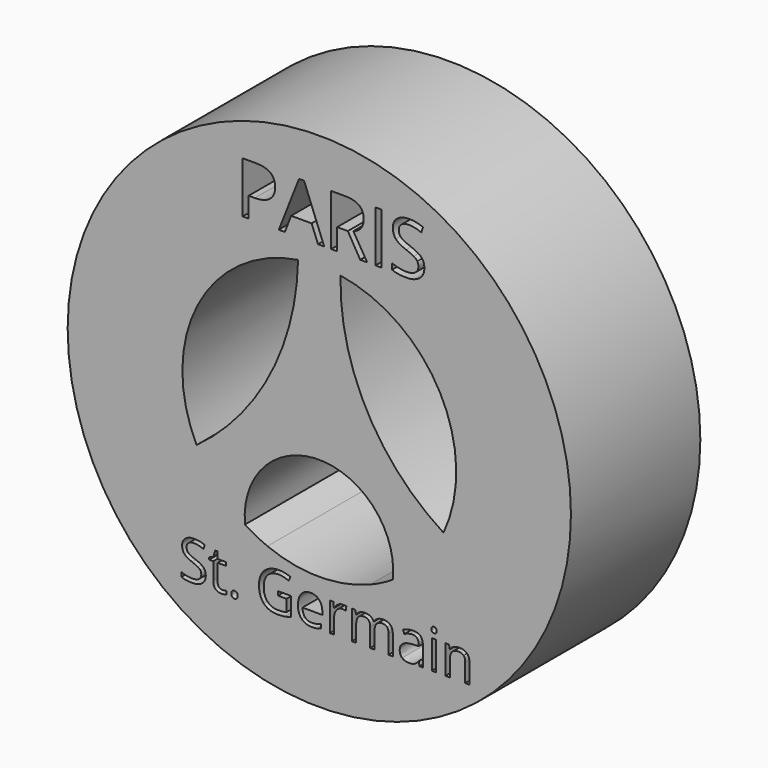
from build123d import *

# Parameters (mm, degrees)
F1_R     = 39.5167171876
F2_DEPTH = 25.4
F3_DEPTH = 25.4
F1_W     = 0.6860065645
F1_H     = 4.5271146115
F1_W_2   = 0.9338615491
F1_H_2   = 8.0354301657
F4_DEPTH = 25.4


with BuildPart() as f2:
    # F1 (on Front) → F2 (new body)
    with BuildSketch(Plane.XZ):
        with Locations((6.874427665, 20.9736265242)):
            Circle(F1_R)
        with BuildLine():
            Line((-30.6504572581, 21.9737566988), (-16.1980021435, 21.9737566988))
            ThreePointArc((-16.1980021435, 21.9737566988), (7.2450765555, -2.1174950821), (29.9028721102, 22.7137483797))
            Line((29.9028721102, 22.7137483797), (44.3722839343, 22.7137483797))
            ThreePointArc((44.3722839343, 22.7137483797), (7.2446702328, -16.5627580819), (-30.6504572581, 21.9737566988))
        make_face(mode=Mode.SUBTRACT)
        with BuildLine():
            ThreePointArc((-4.7943121085, 2.9124931999), (-8.1777184833, 5.6179461032), (-10.9501726241, 8.9466714068))
            ThreePointArc((-10.9501726241, 8.9466714068), (-5.553101401, 14.2993475071), (-1.1611408509, 20.5033947143))
            ThreePointArc((-1.1611408509, 20.5033947143), (-0.854468762, 21.036213134), (-0.5552941629, 21.5732771877))
            ThreePointArc((-0.5552941629, 21.5732771877), (3.436376343, 31.6409628801), (4.8396931084, 42.3797910603))
            ThreePointArc((4.8396931084, 42.3797910603), (6.874427665, 42.4762781017), (8.9091622216, 42.3797910603))
            ThreePointArc((8.9091622216, 42.3797910603), (10.0144576575, 31.6306135807), (13.9662267762, 21.5732771877))
            ThreePointArc((13.9662267762, 21.5732771877), (18.7512195837, 14.7940358034), (24.8361020498, 9.1523627103))
            ThreePointArc((24.8361020498, 9.1523627103), (21.9670972892, 5.6577736757), (18.4307729002, 2.840372275))
            ThreePointArc((18.4307729002, 2.840372275), (16.6832817873, 1.8385695431), (14.8497160789, 1.0046806437))
            ThreePointArc((14.8497160789, 1.0046806437), (6.7823949292, -0.5288280993), (-1.2715037384, 1.0736811365))
            ThreePointArc((-1.2715037384, 1.0736811365), (-3.0754771543, 1.9115327528), (-4.7943121085, 2.9124931999))
        make_face(mode=Mode.SUBTRACT)
        with BuildLine():
            ThreePointArc((3.5409848673, 42.2163237159), (-0.8442051179, 24.9690514894), (-12.3946609871, 11.4307628356))
            ThreePointArc((-12.3946609871, 11.4307628356), (-12.2215482635, 30.8583484828), (3.5409848673, 42.2163237159))
        make_face(mode=Mode.SUBTRACT)
        with BuildLine():
            Line((-16.0863041309, 23.4519471315), (-30.5818825621, 23.4519471315))
            ThreePointArc((-30.5818825621, 23.4519471315), (6.7430741933, 58.5116072254), (44.3124764935, 23.7140186093))
            Line((44.3124764935, 23.7140186093), (29.8053571895, 23.7140186093))
            ThreePointArc((29.8053571895, 23.7140186093), (6.7425473833, 44.0673461299), (-16.0863041309, 23.4519471315))
        make_face(mode=Mode.SUBTRACT)
        with BuildLine():
            ThreePointArc((26.3768148112, 11.9170863205), (14.3089831456, 24.941018802), (10.2078636152, 42.2163247904))
            ThreePointArc((10.2078636152, 42.2163247904), (25.8449223103, 31.097082346), (26.3768148112, 11.9170863205))
        make_face(mode=Mode.SUBTRACT)
        with Locations((6.874427665, 20.9736265242)):
            Circle(F1_R)
        with BuildLine():
            Line((-30.6504572581, 21.9737566988), (-16.1980021435, 21.9737566988))
            ThreePointArc((-16.1980021435, 21.9737566988), (7.2450765555, -2.1174950821), (29.9028721102, 22.7137483797))
            Line((29.9028721102, 22.7137483797), (44.3722839343, 22.7137483797))
            ThreePointArc((44.3722839343, 22.7137483797), (7.2446702328, -16.5627580819), (-30.6504572581, 21.9737566988))
        make_face(mode=Mode.SUBTRACT)
        with BuildLine():
            ThreePointArc((-4.7943121085, 2.9124931999), (-8.1777184833, 5.6179461032), (-10.9501726241, 8.9466714068))
            ThreePointArc((-10.9501726241, 8.9466714068), (-5.553101401, 14.2993475071), (-1.1611408509, 20.5033947143))
            ThreePointArc((-1.1611408509, 20.5033947143), (-0.854468762, 21.036213134), (-0.5552941629, 21.5732771877))
            ThreePointArc((-0.5552941629, 21.5732771877), (3.436376343, 31.6409628801), (4.8396931084, 42.3797910603))
            ThreePointArc((4.8396931084, 42.3797910603), (6.874427665, 42.4762781017), (8.9091622216, 42.3797910603))
            ThreePointArc((8.9091622216, 42.3797910603), (10.0144576575, 31.6306135807), (13.9662267762, 21.5732771877))
            ThreePointArc((13.9662267762, 21.5732771877), (18.7512195837, 14.7940358034), (24.8361020498, 9.1523627103))
            ThreePointArc((24.8361020498, 9.1523627103), (21.9670972892, 5.6577736757), (18.4307729002, 2.840372275))
            ThreePointArc((18.4307729002, 2.840372275), (16.6832817873, 1.8385695431), (14.8497160789, 1.0046806437))
            ThreePointArc((14.8497160789, 1.0046806437), (6.7823949292, -0.5288280993), (-1.2715037384, 1.0736811365))
            ThreePointArc((-1.2715037384, 1.0736811365), (-3.0754771543, 1.9115327528), (-4.7943121085, 2.9124931999))
        make_face(mode=Mode.SUBTRACT)
        with BuildLine():
            ThreePointArc((3.5409848673, 42.2163237159), (-0.8442051179, 24.9690514894), (-12.3946609871, 11.4307628356))
            ThreePointArc((-12.3946609871, 11.4307628356), (-12.2215482635, 30.8583484828), (3.5409848673, 42.2163237159))
        make_face(mode=Mode.SUBTRACT)
        with BuildLine():
            Line((-16.0863041309, 23.4519471315), (-30.5818825621, 23.4519471315))
            ThreePointArc((-30.5818825621, 23.4519471315), (6.7430741933, 58.5116072254), (44.3124764935, 23.7140186093))
            Line((44.3124764935, 23.7140186093), (29.8053571895, 23.7140186093))
            ThreePointArc((29.8053571895, 23.7140186093), (6.7425473833, 44.0673461299), (-16.0863041309, 23.4519471315))
        make_face(mode=Mode.SUBTRACT)
        with BuildLine():
            ThreePointArc((26.3768148112, 11.9170863205), (14.3089831456, 24.941018802), (10.2078636152, 42.2163247904))
            ThreePointArc((10.2078636152, 42.2163247904), (25.8449223103, 31.097082346), (26.3768148112, 11.9170863205))
        make_face(mode=Mode.SUBTRACT)
    extrude(amount=F2_DEPTH)

    # F1 (on Front) → F3 (join)
    with BuildSketch(Plane.XZ):
        with Locations((6.874427665, 20.9736265242)):
            Circle(F1_R)
        with BuildLine():
            Line((-30.6504572581, 21.9737566988), (-16.1980021435, 21.9737566988))
            ThreePointArc((-16.1980021435, 21.9737566988), (7.2450765555, -2.1174950821), (29.9028721102, 22.7137483797))
            Line((29.9028721102, 22.7137483797), (44.3722839343, 22.7137483797))
            ThreePointArc((44.3722839343, 22.7137483797), (7.2446702328, -16.5627580819), (-30.6504572581, 21.9737566988))
        make_face(mode=Mode.SUBTRACT)
        with BuildLine():
            ThreePointArc((-4.7943121085, 2.9124931999), (-8.1777184833, 5.6179461032), (-10.9501726241, 8.9466714068))
            ThreePointArc((-10.9501726241, 8.9466714068), (-5.553101401, 14.2993475071), (-1.1611408509, 20.5033947143))
            ThreePointArc((-1.1611408509, 20.5033947143), (-0.854468762, 21.036213134), (-0.5552941629, 21.5732771877))
            ThreePointArc((-0.5552941629, 21.5732771877), (3.436376343, 31.6409628801), (4.8396931084, 42.3797910603))
            ThreePointArc((4.8396931084, 42.3797910603), (6.874427665, 42.4762781017), (8.9091622216, 42.3797910603))
            ThreePointArc((8.9091622216, 42.3797910603), (10.0144576575, 31.6306135807), (13.9662267762, 21.5732771877))
            ThreePointArc((13.9662267762, 21.5732771877), (18.7512195837, 14.7940358034), (24.8361020498, 9.1523627103))
            ThreePointArc((24.8361020498, 9.1523627103), (21.9670972892, 5.6577736757), (18.4307729002, 2.840372275))
            ThreePointArc((18.4307729002, 2.840372275), (16.6832817873, 1.8385695431), (14.8497160789, 1.0046806437))
            ThreePointArc((14.8497160789, 1.0046806437), (6.7823949292, -0.5288280993), (-1.2715037384, 1.0736811365))
            ThreePointArc((-1.2715037384, 1.0736811365), (-3.0754771543, 1.9115327528), (-4.7943121085, 2.9124931999))
        make_face(mode=Mode.SUBTRACT)
        with BuildLine():
            ThreePointArc((3.5409848673, 42.2163237159), (-0.8442051179, 24.9690514894), (-12.3946609871, 11.4307628356))
            ThreePointArc((-12.3946609871, 11.4307628356), (-12.2215482635, 30.8583484828), (3.5409848673, 42.2163237159))
        make_face(mode=Mode.SUBTRACT)
        with BuildLine():
            Line((-16.0863041309, 23.4519471315), (-30.5818825621, 23.4519471315))
            ThreePointArc((-30.5818825621, 23.4519471315), (6.7430741933, 58.5116072254), (44.3124764935, 23.7140186093))
            Line((44.3124764935, 23.7140186093), (29.8053571895, 23.7140186093))
            ThreePointArc((29.8053571895, 23.7140186093), (6.7425473833, 44.0673461299), (-16.0863041309, 23.4519471315))
        make_face(mode=Mode.SUBTRACT)
        with BuildLine():
            ThreePointArc((26.3768148112, 11.9170863205), (14.3089831456, 24.941018802), (10.2078636152, 42.2163247904))
            ThreePointArc((10.2078636152, 42.2163247904), (25.8449223103, 31.097082346), (26.3768148112, 11.9170863205))
        make_face(mode=Mode.SUBTRACT)
    extrude(amount=F3_DEPTH)

    # F1 (on Front) → F4 (join)
    with BuildSketch(Plane.XZ):
        with BuildLine():
            ThreePointArc((29.9028721102, 22.7137483797), (7.2450765555, -2.1174950821), (-16.1980021435, 21.9737566988))
            Line((-16.1980021435, 21.9737566988), (-30.6504572581, 21.9737566988))
            ThreePointArc((-30.6504572581, 21.9737566988), (7.2446702328, -16.5627580819), (44.3722839343, 22.7137483797))
            Line((44.3722839343, 22.7137483797), (29.9028721102, 22.7137483797))
        make_face()
        with BuildLine():
            add(Edge.make_bspline(
                [(-11.3095467831, -5.1545705291), (-10.9526647553, -5.5431754038), (-10.9526647553, -6.1617709186)],
                knots=[0, 0, 0, 1, 1, 1], degree=2))
            add(Edge.make_bspline(
                [(-10.9526647553, -6.1617709186), (-10.9526647553, -6.9588074473), (-11.5309458188, -7.4055708747)],
                knots=[0, 0, 0, 1, 1, 1], degree=2))
            add(Edge.make_bspline(
                [(-11.5309458188, -7.4055708747), (-12.1092268823, -7.852334302), (-13.1005658484, -7.852334302)],
                knots=[0, 0, 0, 1, 1, 1], degree=2))
            add(Edge.make_bspline(
                [(-13.1005658484, -7.852334302), (-14.1738555022, -7.852334302), (-14.7527974584, -7.5747593915)],
                knots=[0, 0, 0, 1, 1, 1], degree=2))
            Line((-14.7527974584, -7.5747593915), (-14.7527974584, -6.8980053241))
            add(Edge.make_bspline(
                [(-14.7527974584, -6.8980053241), (-14.3800540072, -7.053975988), (-13.9425430768, -7.1451791729)],
                knots=[0, 0, 0, 1, 1, 1], degree=2))
            add(Edge.make_bspline(
                [(-13.9425430768, -7.1451791729), (-13.5050321465, -7.2363823578), (-13.0754519279, -7.2363823578)],
                knots=[0, 0, 0, 1, 1, 1], degree=2))
            add(Edge.make_bspline(
                [(-13.0754519279, -7.2363823578), (-12.3735839399, -7.2363823578), (-12.0180236975, -6.9700426223)],
                knots=[0, 0, 0, 1, 1, 1], degree=2))
            add(Edge.make_bspline(
                [(-12.0180236975, -6.9700426223), (-11.662463455, -6.7037028867), (-11.662463455, -6.227860183)],
                knots=[0, 0, 0, 1, 1, 1], degree=2))
            add(Edge.make_bspline(
                [(-11.662463455, -6.227860183), (-11.662463455, -5.9145970698), (-11.78869395, -5.7143465986)],
                knots=[0, 0, 0, 1, 1, 1], degree=2))
            add(Edge.make_bspline(
                [(-11.78869395, -5.7143465986), (-11.914924445, -5.5140961275), (-12.2103434569, -5.344246718)],
                knots=[0, 0, 0, 1, 1, 1], degree=2))
            add(Edge.make_bspline(
                [(-12.2103434569, -5.344246718), (-12.5057624687, -5.1743973085), (-13.1084965601, -4.9602680918)],
                knots=[0, 0, 0, 1, 1, 1], degree=2))
            add(Edge.make_bspline(
                [(-13.1084965601, -4.9602680918), (-13.9504737886, -4.6589010461), (-14.3119820648, -4.2458431436)],
                knots=[0, 0, 0, 1, 1, 1], degree=2))
            add(Edge.make_bspline(
                [(-14.3119820648, -4.2458431436), (-14.6734903411, -3.8327852411), (-14.6734903411, -3.1679272412)],
                knots=[0, 0, 0, 1, 1, 1], degree=2))
            add(Edge.make_bspline(
                [(-14.6734903411, -3.1679272412), (-14.6734903411, -2.4700246091), (-14.1494024744, -2.0569667066)],
                knots=[0, 0, 0, 1, 1, 1], degree=2))
            add(Edge.make_bspline(
                [(-14.1494024744, -2.0569667066), (-13.6253146077, -1.6439088041), (-12.7608670293, -1.6439088041)],
                knots=[0, 0, 0, 1, 1, 1], degree=2))
            add(Edge.make_bspline(
                [(-12.7608670293, -1.6439088041), (-11.8607312482, -1.6439088041), (-11.1046700634, -1.9743551261)],
                knots=[0, 0, 0, 1, 1, 1], degree=2))
            Line((-11.1046700634, -1.9743551261), (-11.3240864212, -2.5850199292))
            add(Edge.make_bspline(
                [(-11.3240864212, -2.5850199292), (-12.0722168943, -2.2717568159), (-12.7780502381, -2.2717568159)],
                knots=[0, 0, 0, 1, 1, 1], degree=2))
            add(Edge.make_bspline(
                [(-12.7780502381, -2.2717568159), (-13.3358436296, -2.2717568159), (-13.6497676355, -2.5109999531)],
                knots=[0, 0, 0, 1, 1, 1], degree=2))
            add(Edge.make_bspline(
                [(-13.6497676355, -2.5109999531), (-13.9636916415, -2.7502430902), (-13.9636916415, -3.1758579529)],
                knots=[0, 0, 0, 1, 1, 1], degree=2))
            add(Edge.make_bspline(
                [(-13.9636916415, -3.1758579529), (-13.9636916415, -3.4891210662), (-13.8480354287, -3.69003243)],
                knots=[0, 0, 0, 1, 1, 1], degree=2))
            add(Edge.make_bspline(
                [(-13.8480354287, -3.69003243), (-13.732379216, -3.8909437938), (-13.4574478761, -4.0581496327)],
                knots=[0, 0, 0, 1, 1, 1], degree=2))
            add(Edge.make_bspline(
                [(-13.4574478761, -4.0581496327), (-13.1825165362, -4.2253554716), (-12.6167924329, -4.4275886207)],
                knots=[0, 0, 0, 1, 1, 1], degree=2))
            add(Edge.make_bspline(
                [(-12.6167924329, -4.4275886207), (-11.6664288108, -4.7659656544), (-11.3095467831, -5.1545705291)],
                knots=[0, 0, 0, 1, 1, 1], degree=2))
        make_face(mode=Mode.SUBTRACT)
        with BuildLine():
            add(Edge.make_bspline(
                [(-8.890679706, -7.0665329483), (-8.6963772686, -7.2852884135), (-8.3580002349, -7.2852884135)],
                knots=[0, 0, 0, 1, 1, 1], degree=2))
            add(Edge.make_bspline(
                [(-8.3580002349, -7.2852884135), (-8.1755938651, -7.2852884135), (-8.0064053483, -7.2588527077)],
                knots=[0, 0, 0, 1, 1, 1], degree=2))
            add(Edge.make_bspline(
                [(-8.0064053483, -7.2588527077), (-7.8372168314, -7.2324170019), (-7.7380829348, -7.2033377256)],
                knots=[0, 0, 0, 1, 1, 1], degree=2))
            Line((-7.7380829348, -7.2033377256), (-7.7380829348, -7.7280864849))
            add(Edge.make_bspline(
                [(-7.7380829348, -7.7280864849), (-7.849112899, -7.7809578965), (-8.0658856862, -7.8166460992)],
                knots=[0, 0, 0, 1, 1, 1], degree=2))
            add(Edge.make_bspline(
                [(-8.0658856862, -7.8166460992), (-8.2826584735, -7.852334302), (-8.4571341315, -7.852334302)],
                knots=[0, 0, 0, 1, 1, 1], degree=2))
            add(Edge.make_bspline(
                [(-8.4571341315, -7.852334302), (-9.7696669225, -7.852334302), (-9.7696669225, -6.4684251054)],
                knots=[0, 0, 0, 1, 1, 1], degree=2))
            Line((-9.7696669225, -6.4684251054), (-9.7696669225, -3.7746266884))
            Line((-9.7696669225, -3.7746266884), (-10.4186634989, -3.7746266884))
            Line((-10.4186634989, -3.7746266884), (-10.4186634989, -3.4441803664))
            Line((-10.4186634989, -3.4441803664), (-9.7696669225, -3.1586747442))
            Line((-9.7696669225, -3.1586747442), (-9.4815177297, -2.1924496986))
            Line((-9.4815177297, -2.1924496986), (-9.0849821433, -2.1924496986))
            Line((-9.0849821433, -2.1924496986), (-9.0849821433, -3.2419472173))
            Line((-9.0849821433, -3.2419472173), (-7.771127567, -3.2419472173))
            Line((-7.771127567, -3.2419472173), (-7.771127567, -3.7746266884))
            Line((-7.771127567, -3.7746266884), (-9.0849821433, -3.7746266884))
            Line((-9.0849821433, -3.7746266884), (-9.0849821433, -6.4393458291))
            add(Edge.make_bspline(
                [(-9.0849821433, -6.4393458291), (-9.0849821433, -6.8477774831), (-8.890679706, -7.0665329483)],
                knots=[0, 0, 0, 1, 1, 1], degree=2))
        make_face(mode=Mode.SUBTRACT)
        with BuildLine():
            add(Edge.make_bspline(
                [(-6.7949891318, -7.7591484392), (-6.9331156944, -7.6289525883), (-6.9331156944, -7.3315508985)],
                knots=[0, 0, 0, 1, 1, 1], degree=2))
            add(Edge.make_bspline(
                [(-6.9331156944, -7.3315508985), (-6.9331156944, -7.053975988), (-6.8068851994, -6.9118840696)],
                knots=[0, 0, 0, 1, 1, 1], degree=2))
            add(Edge.make_bspline(
                [(-6.8068851994, -6.9118840696), (-6.6806547043, -6.7697921511), (-6.4453769231, -6.7697921511)],
                knots=[0, 0, 0, 1, 1, 1], degree=2))
            add(Edge.make_bspline(
                [(-6.4453769231, -6.7697921511), (-6.2061337859, -6.7697921511), (-6.0719725792, -6.9118840696)],
                knots=[0, 0, 0, 1, 1, 1], degree=2))
            add(Edge.make_bspline(
                [(-6.0719725792, -6.9118840696), (-5.9378113725, -7.053975988), (-5.9378113725, -7.3315508985)],
                knots=[0, 0, 0, 1, 1, 1], degree=2))
            add(Edge.make_bspline(
                [(-5.9378113725, -7.3315508985), (-5.9378113725, -7.599873312), (-6.0739552571, -7.744608801)],
                knots=[0, 0, 0, 1, 1, 1], degree=2))
            add(Edge.make_bspline(
                [(-6.0739552571, -7.744608801), (-6.2100991418, -7.8893442901), (-6.4453769231, -7.8893442901)],
                knots=[0, 0, 0, 1, 1, 1], degree=2))
            add(Edge.make_bspline(
                [(-6.4453769231, -7.8893442901), (-6.6568625692, -7.8893442901), (-6.7949891318, -7.7591484392)],
                knots=[0, 0, 0, 1, 1, 1], degree=2))
        make_face(mode=Mode.SUBTRACT)
        with BuildLine():
            Line((0.3750351632, -5.2325558611), (0.3750351632, -4.6047078493))
            Line((0.3750351632, -4.6047078493), (2.4277677155, -4.6047078493))
            Line((2.4277677155, -4.6047078493), (2.4277677155, -7.5417147593))
            add(Edge.make_bspline(
                [(2.4277677155, -7.5417147593), (1.947959656, -7.6950418527), (1.452290173, -7.7736880774)],
                knots=[0, 0, 0, 1, 1, 1], degree=2))
            add(Edge.make_bspline(
                [(1.452290173, -7.7736880774), (0.9566206899, -7.852334302), (0.3036587577, -7.852334302)],
                knots=[0, 0, 0, 1, 1, 1], degree=2))
            add(Edge.make_bspline(
                [(0.3036587577, -7.852334302), (-1.067032586, -7.852334302), (-1.8310244825, -7.0361318867)],
                knots=[0, 0, 0, 1, 1, 1], degree=2))
            add(Edge.make_bspline(
                [(-1.8310244825, -7.0361318867), (-2.595016379, -6.2199294713), (-2.595016379, -4.750104231)],
                knots=[0, 0, 0, 1, 1, 1], degree=2))
            add(Edge.make_bspline(
                [(-2.595016379, -4.750104231), (-2.595016379, -3.8076713206), (-2.2169857866, -3.0991944062)],
                knots=[0, 0, 0, 1, 1, 1], degree=2))
            add(Edge.make_bspline(
                [(-2.2169857866, -3.0991944062), (-1.8389551943, -2.3907174918), (-1.1284956019, -2.017313148)],
                knots=[0, 0, 0, 1, 1, 1], degree=2))
            add(Edge.make_bspline(
                [(-1.1284956019, -2.017313148), (-0.4180360096, -1.6439088041), (0.5349711831, -1.6439088041)],
                knots=[0, 0, 0, 1, 1, 1], degree=2))
            add(Edge.make_bspline(
                [(0.5349711831, -1.6439088041), (1.5025180139, -1.6439088041), (2.3365645307, -1.9981472613)],
                knots=[0, 0, 0, 1, 1, 1], degree=2))
            Line((2.3365645307, -1.9981472613), (2.0642767613, -2.6180645614))
            add(Edge.make_bspline(
                [(2.0642767613, -2.6180645614), (1.246091668, -2.2717568159), (0.4900304833, -2.2717568159)],
                knots=[0, 0, 0, 1, 1, 1], degree=2))
            add(Edge.make_bspline(
                [(0.4900304833, -2.2717568159), (-0.612338447, -2.2717568159), (-1.232255747, -2.9280232114)],
                knots=[0, 0, 0, 1, 1, 1], degree=2))
            add(Edge.make_bspline(
                [(-1.232255747, -2.9280232114), (-1.8521730471, -3.5842896069), (-1.8521730471, -4.750104231)],
                knots=[0, 0, 0, 1, 1, 1], degree=2))
            add(Edge.make_bspline(
                [(-1.8521730471, -4.750104231), (-1.8521730471, -5.9727556224), (-1.2553869896, -6.6045689901)],
                knots=[0, 0, 0, 1, 1, 1], degree=2))
            add(Edge.make_bspline(
                [(-1.2553869896, -6.6045689901), (-0.658600932, -7.2363823578), (0.497961195, -7.2363823578)],
                knots=[0, 0, 0, 1, 1, 1], degree=2))
            add(Edge.make_bspline(
                [(0.497961195, -7.2363823578), (1.1258092068, -7.2363823578), (1.7245779423, -7.0909859761)],
                knots=[0, 0, 0, 1, 1, 1], degree=2))
            Line((1.7245779423, -7.0909859761), (1.7245779423, -5.2325558611))
            Line((1.7245779423, -5.2325558611), (0.3750351632, -5.2325558611))
        make_face(mode=Mode.SUBTRACT)
        with BuildLine():
            add(Edge.make_bspline(
                [(6.4684653411, -7.783601467), (6.1446279455, -7.852334302), (5.6859684506, -7.852334302)],
                knots=[0, 0, 0, 1, 1, 1], degree=2))
            add(Edge.make_bspline(
                [(5.6859684506, -7.852334302), (4.6827334169, -7.852334302), (4.1018087828, -7.2403477137)],
                knots=[0, 0, 0, 1, 1, 1], degree=2))
            add(Edge.make_bspline(
                [(4.1018087828, -7.2403477137), (3.5208841487, -6.6283611253), (3.5208841487, -5.5431754038)],
                knots=[0, 0, 0, 1, 1, 1], degree=2))
            add(Edge.make_bspline(
                [(3.5208841487, -5.5431754038), (3.5208841487, -4.4474154), (4.0601725463, -3.8030450721)],
                knots=[0, 0, 0, 1, 1, 1], degree=2))
            add(Edge.make_bspline(
                [(4.0601725463, -3.8030450721), (4.5994609438, -3.1586747442), (5.508849222, -3.1586747442)],
                knots=[0, 0, 0, 1, 1, 1], degree=2))
            add(Edge.make_bspline(
                [(5.508849222, -3.1586747442), (6.3587571622, -3.1586747442), (6.8544266452, -3.7184508137)],
                knots=[0, 0, 0, 1, 1, 1], degree=2))
            add(Edge.make_bspline(
                [(6.8544266452, -3.7184508137), (7.3500961282, -4.2782268832), (7.3500961282, -5.1955458731)],
                knots=[0, 0, 0, 1, 1, 1], degree=2))
            Line((7.3500961282, -5.1955458731), (7.3500961282, -5.6290914475))
            Line((7.3500961282, -5.6290914475), (4.2320046337, -5.6290914475))
            add(Edge.make_bspline(
                [(4.2320046337, -5.6290914475), (4.2531531983, -6.4261279762), (4.6351491466, -6.8391858787)],
                knots=[0, 0, 0, 1, 1, 1], degree=2))
            add(Edge.make_bspline(
                [(4.6351491466, -6.8391858787), (5.0171450948, -7.2522437813), (5.711082371, -7.2522437813)],
                knots=[0, 0, 0, 1, 1, 1], degree=2))
            add(Edge.make_bspline(
                [(5.711082371, -7.2522437813), (6.4420296353, -7.2522437813), (7.1557936909, -6.9469113797)],
                knots=[0, 0, 0, 1, 1, 1], degree=2))
            Line((7.1557936909, -6.9469113797), (7.1557936909, -7.5588979681))
            add(Edge.make_bspline(
                [(7.1557936909, -7.5588979681), (6.7923027366, -7.7148686321), (6.4684653411, -7.783601467)],
                knots=[0, 0, 0, 1, 1, 1], degree=2))
        make_face(mode=Mode.SUBTRACT)
        with BuildLine():
            add(Edge.make_bspline(
                [(9.8046514081, -3.398578774), (10.1602116506, -3.1586747442), (10.5858265133, -3.1586747442)],
                knots=[0, 0, 0, 1, 1, 1], degree=2))
            add(Edge.make_bspline(
                [(10.5858265133, -3.1586747442), (10.887193559, -3.1586747442), (11.1264366961, -3.2089025851)],
                knots=[0, 0, 0, 1, 1, 1], degree=2))
            Line((11.1264366961, -3.2089025851), (11.0312681554, -3.8446813087))
            add(Edge.make_bspline(
                [(11.0312681554, -3.8446813087), (10.7510496743, -3.7825574001), (10.5355986724, -3.7825574001)],
                knots=[0, 0, 0, 1, 1, 1], degree=2))
            add(Edge.make_bspline(
                [(10.5355986724, -3.7825574001), (9.9857359926, -3.7825574001), (9.5958093326, -4.2286599349)],
                knots=[0, 0, 0, 1, 1, 1], degree=2))
            add(Edge.make_bspline(
                [(9.5958093326, -4.2286599349), (9.2058826726, -4.6747624696), (9.2058826726, -5.3396204695)],
                knots=[0, 0, 0, 1, 1, 1], degree=2))
            Line((9.2058826726, -5.3396204695), (9.2058826726, -7.7690618289))
            Line((9.2058826726, -7.7690618289), (8.5198761081, -7.7690618289))
            Line((8.5198761081, -7.7690618289), (8.5198761081, -3.2419472173))
            Line((8.5198761081, -3.2419472173), (9.0856002114, -3.2419472173))
            Line((9.0856002114, -3.2419472173), (9.1649073287, -4.07995909))
            Line((9.1649073287, -4.07995909), (9.1979519609, -4.07995909))
            add(Edge.make_bspline(
                [(9.1979519609, -4.07995909), (9.4490911656, -3.6384828037), (9.8046514081, -3.398578774)],
                knots=[0, 0, 0, 1, 1, 1], degree=2))
        make_face(mode=Mode.SUBTRACT)
        with BuildLine():
            Line((18.4293004126, -7.7690618289), (17.7446156334, -7.7690618289))
            Line((17.7446156334, -7.7690618289), (17.7446156334, -4.8241242071))
            add(Edge.make_bspline(
                [(17.7446156334, -4.8241242071), (17.7446156334, -4.282192239), (17.5133032079, -4.0118871476)],
                knots=[0, 0, 0, 1, 1, 1], degree=2))
            add(Edge.make_bspline(
                [(17.5133032079, -4.0118871476), (17.2819907825, -3.7415820562), (16.7942520113, -3.7415820562)],
                knots=[0, 0, 0, 1, 1, 1], degree=2))
            add(Edge.make_bspline(
                [(16.7942520113, -3.7415820562), (16.1545079318, -3.7415820562), (15.8485146377, -4.1090383663)],
                knots=[0, 0, 0, 1, 1, 1], degree=2))
            add(Edge.make_bspline(
                [(15.8485146377, -4.1090383663), (15.5425213435, -4.4764946764), (15.5425213435, -5.2404865729)],
                knots=[0, 0, 0, 1, 1, 1], degree=2))
            Line((15.5425213435, -5.2404865729), (15.5425213435, -7.7690618289))
            Line((15.5425213435, -7.7690618289), (14.856514779, -7.7690618289))
            Line((14.856514779, -7.7690618289), (14.856514779, -4.8241242071))
            add(Edge.make_bspline(
                [(14.856514779, -4.8241242071), (14.856514779, -4.282192239), (14.6252023536, -4.0118871476)],
                knots=[0, 0, 0, 1, 1, 1], degree=2))
            add(Edge.make_bspline(
                [(14.6252023536, -4.0118871476), (14.3938899282, -3.7415820562), (13.902185801, -3.7415820562)],
                knots=[0, 0, 0, 1, 1, 1], degree=2))
            add(Edge.make_bspline(
                [(13.902185801, -3.7415820562), (13.2584763657, -3.7415820562), (12.959091998, -4.1275433603)],
                knots=[0, 0, 0, 1, 1, 1], degree=2))
            add(Edge.make_bspline(
                [(12.959091998, -4.1275433603), (12.6597076303, -4.5135046644), (12.6597076303, -5.3938136663)],
                knots=[0, 0, 0, 1, 1, 1], degree=2))
            Line((12.6597076303, -5.3938136663), (12.6597076303, -7.7690618289))
            Line((12.6597076303, -7.7690618289), (11.9737010658, -7.7690618289))
            Line((11.9737010658, -7.7690618289), (11.9737010658, -3.2419472173))
            Line((11.9737010658, -3.2419472173), (12.5314944573, -3.2419472173))
            Line((12.5314944573, -3.2419472173), (12.6425244215, -3.8618645174))
            Line((12.6425244215, -3.8618645174), (12.6755690537, -3.8618645174))
            add(Edge.make_bspline(
                [(12.6755690537, -3.8618645174), (12.8698714911, -3.5314181954), (13.2234490556, -3.3450464698)],
                knots=[0, 0, 0, 1, 1, 1], degree=2))
            add(Edge.make_bspline(
                [(13.2234490556, -3.3450464698), (13.5770266202, -3.1586747442), (14.0145375505, -3.1586747442)],
                knots=[0, 0, 0, 1, 1, 1], degree=2))
            add(Edge.make_bspline(
                [(14.0145375505, -3.1586747442), (15.0759311368, -3.1586747442), (15.4024121029, -3.9279537818)],
                knots=[0, 0, 0, 1, 1, 1], degree=2))
            Line((15.4024121029, -3.9279537818), (15.4354567351, -3.9279537818))
            add(Edge.make_bspline(
                [(15.4354567351, -3.9279537818), (15.6376898842, -3.5723935393), (16.0216685104, -3.3655341418)],
                knots=[0, 0, 0, 1, 1, 1], degree=2))
            add(Edge.make_bspline(
                [(16.0216685104, -3.3655341418), (16.4056471366, -3.1586747442), (16.8973512637, -3.1586747442)],
                knots=[0, 0, 0, 1, 1, 1], degree=2))
            add(Edge.make_bspline(
                [(16.8973512637, -3.1586747442), (17.6653085161, -3.1586747442), (18.0473044643, -3.5532276527)],
                knots=[0, 0, 0, 1, 1, 1], degree=2))
            add(Edge.make_bspline(
                [(18.0473044643, -3.5532276527), (18.4293004126, -3.9477805612), (18.4293004126, -4.8161934954)],
                knots=[0, 0, 0, 1, 1, 1], degree=2))
            Line((18.4293004126, -4.8161934954), (18.4293004126, -7.7690618289))
        make_face(mode=Mode.SUBTRACT)
        with BuildLine():
            Line((23.134856038, -7.7690618289), (22.6259687021, -7.7690618289))
            Line((22.6259687021, -7.7690618289), (22.4898248174, -7.1240306083))
            Line((22.4898248174, -7.1240306083), (22.4567801852, -7.1240306083))
            add(Edge.make_bspline(
                [(22.4567801852, -7.1240306083), (22.1184031515, -7.5496454711), (21.7820087957, -7.7009898865)],
                knots=[0, 0, 0, 1, 1, 1], degree=2))
            add(Edge.make_bspline(
                [(21.7820087957, -7.7009898865), (21.4456144399, -7.852334302), (20.9406924598, -7.852334302)],
                knots=[0, 0, 0, 1, 1, 1], degree=2))
            add(Edge.make_bspline(
                [(20.9406924598, -7.852334302), (20.2679037482, -7.852334302), (19.8859078, -7.5047047713)],
                knots=[0, 0, 0, 1, 1, 1], degree=2))
            add(Edge.make_bspline(
                [(19.8859078, -7.5047047713), (19.5039118517, -7.1570752405), (19.5039118517, -6.5173311611)],
                knots=[0, 0, 0, 1, 1, 1], degree=2))
            add(Edge.make_bspline(
                [(19.5039118517, -6.5173311611), (19.5039118517, -5.1466398174), (21.6967536446, -5.080550553)],
                knots=[0, 0, 0, 1, 1, 1], degree=2))
            Line((21.6967536446, -5.080550553), (22.4647108969, -5.0554366325))
            Line((22.4647108969, -5.0554366325), (22.4647108969, -4.7738963662))
            add(Edge.make_bspline(
                [(22.4647108969, -4.7738963662), (22.4647108969, -4.2412168951), (22.2360420421, -3.9874341198)],
                knots=[0, 0, 0, 1, 1, 1], degree=2))
            add(Edge.make_bspline(
                [(22.2360420421, -3.9874341198), (22.0073731873, -3.7336513445), (21.5024512073, -3.7336513445)],
                knots=[0, 0, 0, 1, 1, 1], degree=2))
            add(Edge.make_bspline(
                [(21.5024512073, -3.7336513445), (20.936727104, -3.7336513445), (20.2229630484, -4.07995909)],
                knots=[0, 0, 0, 1, 1, 1], degree=2))
            Line((20.2229630484, -4.07995909), (20.0114774023, -3.5552103306))
            add(Edge.make_bspline(
                [(20.0114774023, -3.5552103306), (20.3458890802, -3.3741257461), (20.7444073446, -3.2710264937)],
                knots=[0, 0, 0, 1, 1, 1], degree=2))
            add(Edge.make_bspline(
                [(20.7444073446, -3.2710264937), (21.1429256089, -3.1679272412), (21.5447483365, -3.1679272412)],
                knots=[0, 0, 0, 1, 1, 1], degree=2))
            add(Edge.make_bspline(
                [(21.5447483365, -3.1679272412), (22.3536809327, -3.1679272412), (22.7442684854, -3.5267919469)],
                knots=[0, 0, 0, 1, 1, 1], degree=2))
            add(Edge.make_bspline(
                [(22.7442684854, -3.5267919469), (23.134856038, -3.8856566526), (23.134856038, -4.6787278254)],
                knots=[0, 0, 0, 1, 1, 1], degree=2))
            Line((23.134856038, -4.6787278254), (23.134856038, -7.7690618289))
        make_face(mode=Mode.SUBTRACT)
        with Locations((24.8895260079, -5.5055045231)):
            Rectangle(F1_W, F1_H, mode=Mode.SUBTRACT)
        with BuildLine():
            add(Edge.make_bspline(
                [(24.6040203856, -2.3603164302), (24.4883641729, -2.2466428954), (24.4883641729, -2.01533047)],
                knots=[0, 0, 0, 1, 1, 1], degree=2))
            add(Edge.make_bspline(
                [(24.4883641729, -2.01533047), (24.4883641729, -1.7800526888), (24.6040203856, -1.6703445099)],
                knots=[0, 0, 0, 1, 1, 1], degree=2))
            add(Edge.make_bspline(
                [(24.6040203856, -1.6703445099), (24.7196765983, -1.5606363309), (24.8941522564, -1.5606363309)],
                knots=[0, 0, 0, 1, 1, 1], degree=2))
            add(Edge.make_bspline(
                [(24.8941522564, -1.5606363309), (25.0593754174, -1.5606363309), (25.1789969859, -1.6723271878)],
                knots=[0, 0, 0, 1, 1, 1], degree=2))
            add(Edge.make_bspline(
                [(25.1789969859, -1.6723271878), (25.2986185545, -1.7840180446), (25.2986185545, -2.01533047)],
                knots=[0, 0, 0, 1, 1, 1], degree=2))
            add(Edge.make_bspline(
                [(25.2986185545, -2.01533047), (25.2986185545, -2.2466428954), (25.1789969859, -2.3603164302)],
                knots=[0, 0, 0, 1, 1, 1], degree=2))
            add(Edge.make_bspline(
                [(25.1789969859, -2.3603164302), (25.0593754174, -2.473989965), (24.8941522564, -2.473989965)],
                knots=[0, 0, 0, 1, 1, 1], degree=2))
            add(Edge.make_bspline(
                [(24.8941522564, -2.473989965), (24.7196765983, -2.473989965), (24.6040203856, -2.3603164302)],
                knots=[0, 0, 0, 1, 1, 1], degree=2))
        make_face(mode=Mode.SUBTRACT)
        with BuildLine():
            Line((30.4707643866, -7.7690618289), (29.7847578221, -7.7690618289))
            Line((29.7847578221, -7.7690618289), (29.7847578221, -4.8399856306))
            add(Edge.make_bspline(
                [(29.7847578221, -4.8399856306), (29.7847578221, -4.2874793802), (29.5329577247, -4.0145307182)],
                knots=[0, 0, 0, 1, 1, 1], degree=2))
            add(Edge.make_bspline(
                [(29.5329577247, -4.0145307182), (29.2811576274, -3.7415820562), (28.7431910151, -3.7415820562)],
                knots=[0, 0, 0, 1, 1, 1], degree=2))
            add(Edge.make_bspline(
                [(28.7431910151, -3.7415820562), (28.0333923155, -3.7415820562), (27.7029459934, -4.1255606824)],
                knots=[0, 0, 0, 1, 1, 1], degree=2))
            add(Edge.make_bspline(
                [(27.7029459934, -4.1255606824), (27.3724996714, -4.5095393086), (27.3724996714, -5.3938136663)],
                knots=[0, 0, 0, 1, 1, 1], degree=2))
            Line((27.3724996714, -5.3938136663), (27.3724996714, -7.7690618289))
            Line((27.3724996714, -7.7690618289), (26.6864931069, -7.7690618289))
            Line((26.6864931069, -7.7690618289), (26.6864931069, -3.2419472173))
            Line((26.6864931069, -3.2419472173), (27.2442864985, -3.2419472173))
            Line((27.2442864985, -3.2419472173), (27.3553164627, -3.8618645174))
            Line((27.3553164627, -3.8618645174), (27.3883610949, -3.8618645174))
            add(Edge.make_bspline(
                [(27.3883610949, -3.8618645174), (27.599846741, -3.5274528396), (27.9798600113, -3.3430637919)],
                knots=[0, 0, 0, 1, 1, 1], degree=2))
            add(Edge.make_bspline(
                [(27.9798600113, -3.3430637919), (28.3598732816, -3.1586747442), (28.8264634883, -3.1586747442)],
                knots=[0, 0, 0, 1, 1, 1], degree=2))
            add(Edge.make_bspline(
                [(28.8264634883, -3.1586747442), (29.6446485816, -3.1586747442), (30.0577064841, -3.5532276527)],
                knots=[0, 0, 0, 1, 1, 1], degree=2))
            add(Edge.make_bspline(
                [(30.0577064841, -3.5532276527), (30.4707643866, -3.9477805612), (30.4707643866, -4.8161934954)],
                knots=[0, 0, 0, 1, 1, 1], degree=2))
            Line((30.4707643866, -4.8161934954), (30.4707643866, -7.7690618289))
        make_face(mode=Mode.SUBTRACT)
        with BuildLine():
            ThreePointArc((44.3124764935, 23.7140186093), (6.7430741933, 58.5116072254), (-30.5818825621, 23.4519471315))
            Line((-30.5818825621, 23.4519471315), (-16.0863041309, 23.4519471315))
            ThreePointArc((-16.0863041309, 23.4519471315), (6.7425473833, 44.0673461299), (29.8053571895, 23.7140186093))
            Line((29.8053571895, 23.7140186093), (44.3124764935, 23.7140186093))
        make_face()
        with BuildLine():
            add(Edge.make_bspline(
                [(-3.0705461023, 53.4316612805), (-0.0596779816, 53.4316612805), (-0.0596779816, 51.0908520114)],
                knots=[0, 0, 0, 1, 1, 1], degree=2))
            add(Edge.make_bspline(
                [(-0.0596779816, 51.0908520114), (-0.0596779816, 49.8703248644), (-0.8924151633, 49.2134561476)],
                knots=[0, 0, 0, 1, 1, 1], degree=2))
            add(Edge.make_bspline(
                [(-0.8924151633, 49.2134561476), (-1.7251523451, 48.5565874308), (-3.2745535217, 48.5565874308)],
                knots=[0, 0, 0, 1, 1, 1], degree=2))
            Line((-3.2745535217, 48.5565874308), (-4.2207258634, 48.5565874308))
            Line((-4.2207258634, 48.5565874308), (-4.2207258634, 45.3962311149))
            Line((-4.2207258634, 45.3962311149), (-5.1545874125, 45.3962311149))
            Line((-5.1545874125, 45.3962311149), (-5.1545874125, 53.4316612805))
            Line((-5.1545874125, 53.4316612805), (-3.0705461023, 53.4316612805))
        make_face(mode=Mode.SUBTRACT)
        Polygon((7.6398434159, 45.3962311149), (6.6725668585, 45.3962311149), (5.6718752926, 47.9515999113), (2.4517236986, 47.9515999113), (1.4633429253, 45.3962311149), (0.5171705836, 45.3962311149), (3.6933550614, 53.4650762889), (4.4794871, 53.4650762889), align=None, mode=Mode.SUBTRACT)
        with BuildLine():
            Line((11.3559440813, 48.7377319498), (9.6781589253, 48.7377319498))
            Line((9.6781589253, 48.7377319498), (9.6781589253, 45.3962311149))
            Line((9.6781589253, 45.3962311149), (8.7442973761, 45.3962311149))
            Line((8.7442973761, 45.3962311149), (8.7442973761, 53.4316612805))
            Line((8.7442973761, 53.4316612805), (10.9479292425, 53.4316612805))
            add(Edge.make_bspline(
                [(10.9479292425, 53.4316612805), (12.4269830331, 53.4316612805), (13.1330949201, 52.8653648232)],
                knots=[0, 0, 0, 1, 1, 1], degree=2))
            add(Edge.make_bspline(
                [(13.1330949201, 52.8653648232), (13.8392068071, 52.299068366), (13.8392068071, 51.1611993974)],
                knots=[0, 0, 0, 1, 1, 1], degree=2))
            add(Edge.make_bspline(
                [(13.8392068071, 51.1611993974), (13.8392068071, 49.5678311046), (12.2229756137, 49.0068107012)],
                knots=[0, 0, 0, 1, 1, 1], degree=2))
            Line((12.2229756137, 49.0068107012), (14.4055032643, 45.3962311149))
            Line((14.4055032643, 45.3962311149), (13.3010493042, 45.3962311149))
            Line((13.3010493042, 45.3962311149), (11.3559440813, 48.7377319498))
        make_face(mode=Mode.SUBTRACT)
        with Locations((16.1685846259, 49.4139461977)):
            Rectangle(F1_W_2, F1_H_2, mode=Mode.SUBTRACT)
        with BuildLine():
            add(Edge.make_bspline(
                [(22.898191439, 48.8749093525), (23.3730362945, 48.3578560654), (23.3730362945, 47.5347916492)],
                knots=[0, 0, 0, 1, 1, 1], degree=2))
            add(Edge.make_bspline(
                [(23.3730362945, 47.5347916492), (23.3730362945, 46.4743048053), (22.6036117601, 45.8798693936)],
                knots=[0, 0, 0, 1, 1, 1], degree=2))
            add(Edge.make_bspline(
                [(22.6036117601, 45.8798693936), (21.8341872258, 45.2854339819), (20.5151737383, 45.2854339819)],
                knots=[0, 0, 0, 1, 1, 1], degree=2))
            add(Edge.make_bspline(
                [(20.5151737383, 45.2854339819), (19.0871218025, 45.2854339819), (18.3168179259, 45.6547577584)],
                knots=[0, 0, 0, 1, 1, 1], degree=2))
            Line((18.3168179259, 45.6547577584), (18.3168179259, 46.5552042992))
            add(Edge.make_bspline(
                [(18.3168179259, 46.5552042992), (18.8127669971, 46.3476795105), (19.3948916163, 46.2263302696)],
                knots=[0, 0, 0, 1, 1, 1], degree=2))
            add(Edge.make_bspline(
                [(19.3948916163, 46.2263302696), (19.9770162354, 46.1049810288), (20.5485887467, 46.1049810288)],
                knots=[0, 0, 0, 1, 1, 1], degree=2))
            add(Edge.make_bspline(
                [(20.5485887467, 46.1049810288), (21.4824502958, 46.1049810288), (21.9555364666, 46.4593559858)],
                knots=[0, 0, 0, 1, 1, 1], degree=2))
            add(Edge.make_bspline(
                [(21.9555364666, 46.4593559858), (22.4286226375, 46.8137309427), (22.4286226375, 47.4468574167)],
                knots=[0, 0, 0, 1, 1, 1], degree=2))
            add(Edge.make_bspline(
                [(22.4286226375, 47.4468574167), (22.4286226375, 47.8636656788), (22.2606682534, 48.1301064032)],
                knots=[0, 0, 0, 1, 1, 1], degree=2))
            add(Edge.make_bspline(
                [(22.2606682534, 48.1301064032), (22.0927138693, 48.3965471277), (21.6996478501, 48.6225381052)],
                knots=[0, 0, 0, 1, 1, 1], degree=2))
            add(Edge.make_bspline(
                [(21.6996478501, 48.6225381052), (21.3065818308, 48.8485290827), (20.5046216304, 49.133435996)],
                knots=[0, 0, 0, 1, 1, 1], degree=2))
            add(Edge.make_bspline(
                [(20.5046216304, 49.133435996), (19.3843395084, 49.5344160962), (18.9033392566, 50.0840050493)],
                knots=[0, 0, 0, 1, 1, 1], degree=2))
            add(Edge.make_bspline(
                [(18.9033392566, 50.0840050493), (18.4223390049, 50.6335940024), (18.4223390049, 51.5182123814)],
                knots=[0, 0, 0, 1, 1, 1], degree=2))
            add(Edge.make_bspline(
                [(18.4223390049, 51.5182123814), (18.4223390049, 52.4467978766), (19.1196574686, 52.9963868297)],
                knots=[0, 0, 0, 1, 1, 1], degree=2))
            add(Edge.make_bspline(
                [(19.1196574686, 52.9963868297), (19.8169759323, 53.5459757828), (20.9671556933, 53.5459757828)],
                knots=[0, 0, 0, 1, 1, 1], degree=2))
            add(Edge.make_bspline(
                [(20.9671556933, 53.5459757828), (22.16481994, 53.5459757828), (23.1707875597, 53.1063046203)],
                knots=[0, 0, 0, 1, 1, 1], degree=2))
            Line((23.1707875597, 53.1063046203), (22.8788459079, 52.293792312))
            add(Edge.make_bspline(
                [(22.8788459079, 52.293792312), (21.883430396, 52.710600574), (20.9442927929, 52.710600574)],
                knots=[0, 0, 0, 1, 1, 1], degree=2))
            add(Edge.make_bspline(
                [(20.9442927929, 52.710600574), (20.2021278706, 52.710600574), (19.7844402662, 52.3922786524)],
                knots=[0, 0, 0, 1, 1, 1], degree=2))
            add(Edge.make_bspline(
                [(19.7844402662, 52.3922786524), (19.3667526619, 52.0739567308), (19.3667526619, 51.5076602735)],
                knots=[0, 0, 0, 1, 1, 1], degree=2))
            add(Edge.make_bspline(
                [(19.3667526619, 51.5076602735), (19.3667526619, 51.0908520114), (19.5206375688, 50.8235319446)],
                knots=[0, 0, 0, 1, 1, 1], degree=2))
            add(Edge.make_bspline(
                [(19.5206375688, 50.8235319446), (19.6745224756, 50.5562118778), (20.0403288828, 50.3337382696)],
                knots=[0, 0, 0, 1, 1, 1], degree=2))
            add(Edge.make_bspline(
                [(20.0403288828, 50.3337382696), (20.40613529, 50.1112646614), (21.1588523202, 49.84218591)],
                knots=[0, 0, 0, 1, 1, 1], degree=2))
            add(Edge.make_bspline(
                [(21.1588523202, 49.84218591), (22.4233465835, 49.3919626396), (22.898191439, 48.8749093525)],
                knots=[0, 0, 0, 1, 1, 1], degree=2))
        make_face(mode=Mode.SUBTRACT)
        with BuildLine():
            ThreePointArc((4.8396931084, 42.3797910603), (3.436376343, 31.6409628801), (-0.5552941629, 21.5732771877))
            Line((-0.5552941629, 21.5732771877), (13.9662267762, 21.5732771877))
            ThreePointArc((13.9662267762, 21.5732771877), (10.0144576575, 31.6306135807), (8.9091622216, 42.3797910603))
            ThreePointArc((8.9091622216, 42.3797910603), (6.874427665, 42.4762781017), (4.8396931084, 42.3797910603))
        make_face()
        with BuildLine():
            ThreePointArc((-1.1611408509, 20.5033947143), (-5.553101401, 14.2993475071), (-10.9501726241, 8.9466714068))
            ThreePointArc((-10.9501726241, 8.9466714068), (-8.1777184833, 5.6179461032), (-4.7943121085, 2.9124931999))
            ThreePointArc((-4.7943121085, 2.9124931999), (6.8579321216, 15.6615704393), (18.4307729002, 2.840372275))
            ThreePointArc((18.4307729002, 2.840372275), (21.9670972892, 5.6577736757), (24.8361020498, 9.1523627103))
            ThreePointArc((24.8361020498, 9.1523627103), (18.7512195837, 14.7940358034), (13.9662267762, 21.5732771877))
            Line((13.9662267762, 21.5732771877), (-0.5552941629, 21.5732771877))
            ThreePointArc((-0.5552941629, 21.5732771877), (-0.854468762, 21.036213134), (-1.1611408509, 20.5033947143))
        make_face()
    extrude(amount=F4_DEPTH)


solid = f2.part
